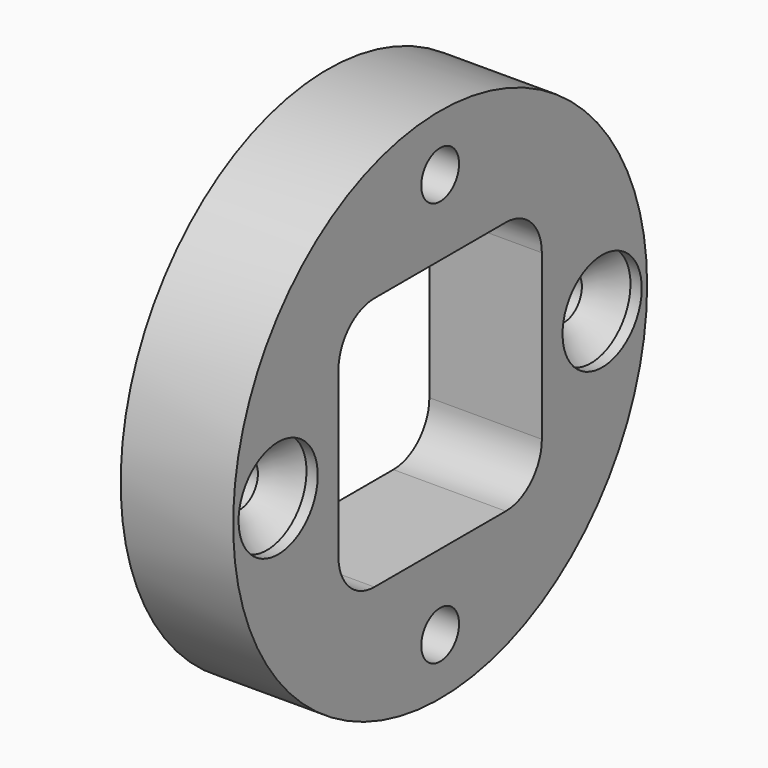
from build123d import *

# Parameters (mm, degrees)
F0_R     = 11.5
F0_R_2   = 1.05
F0_R_3   = 1
F1_DEPTH = 5


with BuildPart() as f1:
    # F0 (on Right) → F1 (new body)
    with BuildSketch(Plane.YZ):
        Circle(F0_R)
        with Locations((0, -9)):
            Circle(F0_R_2, mode=Mode.SUBTRACT)
        with Locations((-9, 0)):
            Circle(F0_R_3, mode=Mode.SUBTRACT)
        with BuildLine():
            ThreePointArc((-5.65, 3.65), (-5.064214, 5.064214), (-3.65, 5.65))
            Line((-3.65, 5.65), (3.65, 5.65))
            ThreePointArc((3.65, 5.65), (5.064214, 5.064214), (5.65, 3.65))
            Line((5.65, 3.65), (5.65, -3.65))
            ThreePointArc((5.65, -3.65), (5.064214, -5.064214), (3.65, -5.65))
            Line((3.65, -5.65), (-3.65, -5.65))
            ThreePointArc((-3.65, -5.65), (-5.064214, -5.064214), (-5.65, -3.65))
            Line((-5.65, -3.65), (-5.65, 3.65))
        make_face(mode=Mode.SUBTRACT)
        with Locations((9, 0)):
            Circle(F0_R_3, mode=Mode.SUBTRACT)
        with Locations((0, 9)):
            Circle(F0_R_2, mode=Mode.SUBTRACT)
    extrude(amount=F1_DEPTH)

    # F3 (on offset) → F5 (revolve, cut)
    with BuildSketch(Plane.XZ.offset(9)):
        Polygon((2.3, 0), (5, 0), (5, 2.2), (4.5, 2.2), align=None)
    revolve(axis=Axis((2.750115, -9, 0), (1, 0, 0)), mode=Mode.SUBTRACT)

    # F7 (on offset) → F8 (revolve, cut)
    with BuildSketch(Plane.XZ.offset(-9)):
        Polygon((4.5, 2.2), (2.3, 0), (5, 0), (5, 2.2), align=None)
    revolve(axis=Axis((3.65, 9, 0), (1, 0, 0)), mode=Mode.SUBTRACT)


solid = f1.part
